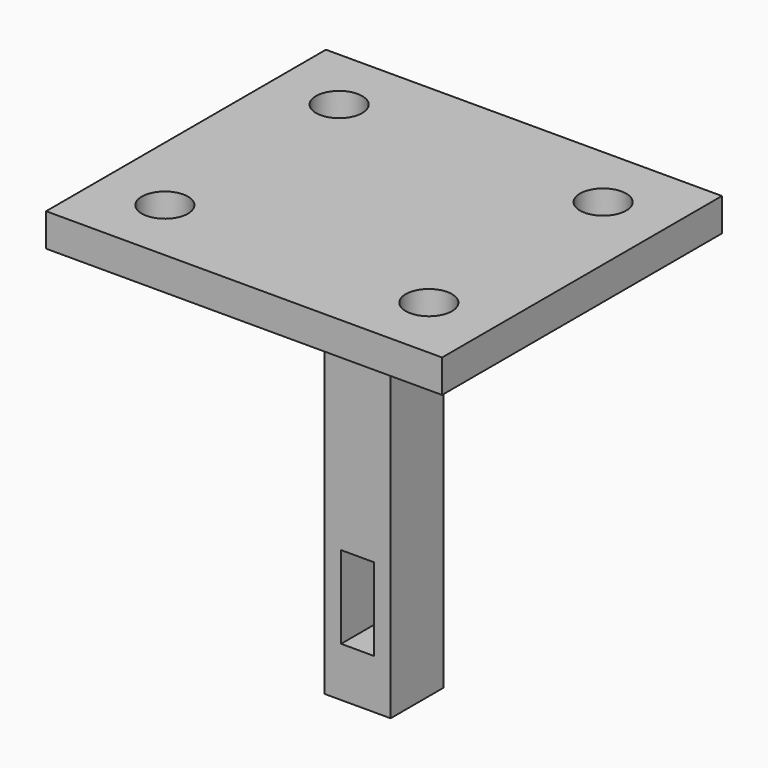
from build123d import *

# Parameters (mm, degrees)
F0_W     = 20
F0_H     = 20
F2_DEPTH = 120
F0_W_2   = 120
F0_H_2   = 106
F0_R     = 7
F3_DEPTH = 10
F1_W     = 10
F1_H     = 25
F4_DEPTH = 12.5


with BuildPart() as f2:
    # F0 (on Top) → F2 (new body)
    with BuildSketch(Plane.XY):
        Rectangle(F0_W, F0_H)
    extrude(amount=-F2_DEPTH)

    # F0 (on Top) → F3 (join)
    with BuildSketch(Plane.XY):
        Rectangle(F0_W_2, F0_H_2)
        with Locations((-40, -33)):
            Circle(F0_R, mode=Mode.SUBTRACT)
        with Locations((40, -33)):
            Circle(F0_R, mode=Mode.SUBTRACT)
        with Locations((-40, 33)):
            Circle(F0_R, mode=Mode.SUBTRACT)
        Rectangle(F0_W, F0_H, mode=Mode.SUBTRACT)
        with Locations((40, 33)):
            Circle(F0_R, mode=Mode.SUBTRACT)
        Rectangle(F0_W, F0_H)
    extrude(amount=F3_DEPTH)

    # F1 (on Front) → F4 (cut, symmetric)
    with BuildSketch(Plane.XZ):
        with Locations((0, -92.5)):
            Rectangle(F1_W, F1_H)
    extrude(amount=F4_DEPTH, both=True, mode=Mode.SUBTRACT)


solid = f2.part
